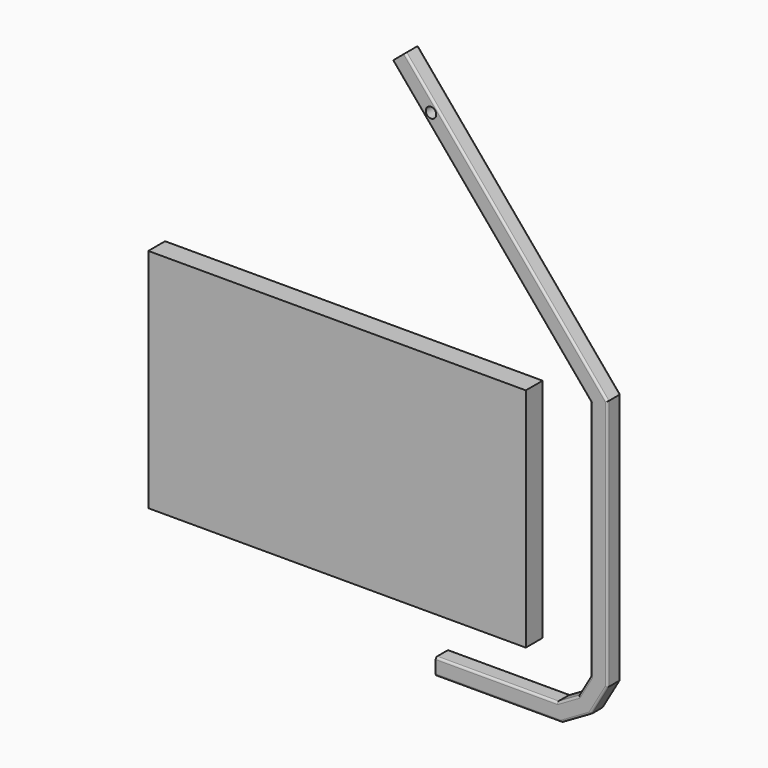
from build123d import *

# Parameters (mm, degrees)
F0_R     = 12.5
F1_DEPTH = 40
F2_R     = 5
F4_DEPTH = 50


with BuildPart() as f1:
    # F0 (on Front) → F1 (new body)
    with BuildSketch(Plane.XZ):
        Polygon((-27.848202, 26.234436), (-317.158202, 26.234436), (-317.158202, -13.765564), (-17.158202, -13.765564), align=None)
        Polygon((22.855404, 55.519863), (-27.848202, 26.234436), (-17.158202, -13.765564), (52.123831, 26.234436), align=None)
        Polygon((52.135741, 106.226407), (22.855404, 55.519863), (52.123831, 26.234436), (92.129537, 95.513174), align=None)
        Polygon((52.135741, 680.976407), (52.135741, 106.226407), (92.129537, 95.513174), (92.129537, 695.513174), align=None)
        Polygon((-420.568888, 1244.36682), (52.135741, 680.976407), (92.129537, 695.513174), (-389.925515, 1270.076423), align=None)
        with Locations((-328.330202, 1165.548519)):
            Circle(F0_R, mode=Mode.SUBTRACT)
    extrude(amount=F1_DEPTH)

    # F2
    f2_edges = [f1.edges().sort_by_distance(p)[0] for p in [
        (-148.897989, -40, 982.794798),
        (-184.216573, 0, 962.671614),
        (-184.216573, -40, 962.671614),
        (-148.897989, 0, 982.794798),
        (52.135741, 0, 393.601407),
        (52.135741, -40, 393.601407),
        (92.129537, 0, 395.513174),
        (-172.503202, -40, 26.234436),
        (37.495573, -40, 80.873135),
        (-2.496399, -40, 40.877149),
        (37.495573, 0, 80.873135),
        (-2.496399, 0, 40.877149),
        (-172.503202, 0, 26.234436),
        (-167.158202, 0, -13.765564),
        (17.482815, 0, 6.234436),
        (72.126684, 0, 60.873805),
        (-167.158202, -40, -13.765564),
        (17.482815, -40, 6.234436),
        (72.126684, -40, 60.873805),
        (92.129537, -40, 395.513174),
    ]]
    fillet(f2_edges, radius=F2_R)


with BuildPart() as f4:
    # F3 (on Front) → F4 (new body)
    with BuildSketch(Plane.XZ):
        Polygon((-516.625106, 122.775279), (-94.312755, 122.775279), (-94.312755, 662.775279), (-994.312755, 662.775279), (-994.312755, 122.775279), align=None)
        Polygon((-516.625106, 122.775279), (-94.312755, 122.775279), (-94.312755, 662.775279), (-994.312755, 662.775279), (-994.312755, 122.775279), align=None)
    extrude(amount=F4_DEPTH)


solid = Compound([f1.part, f4.part])
